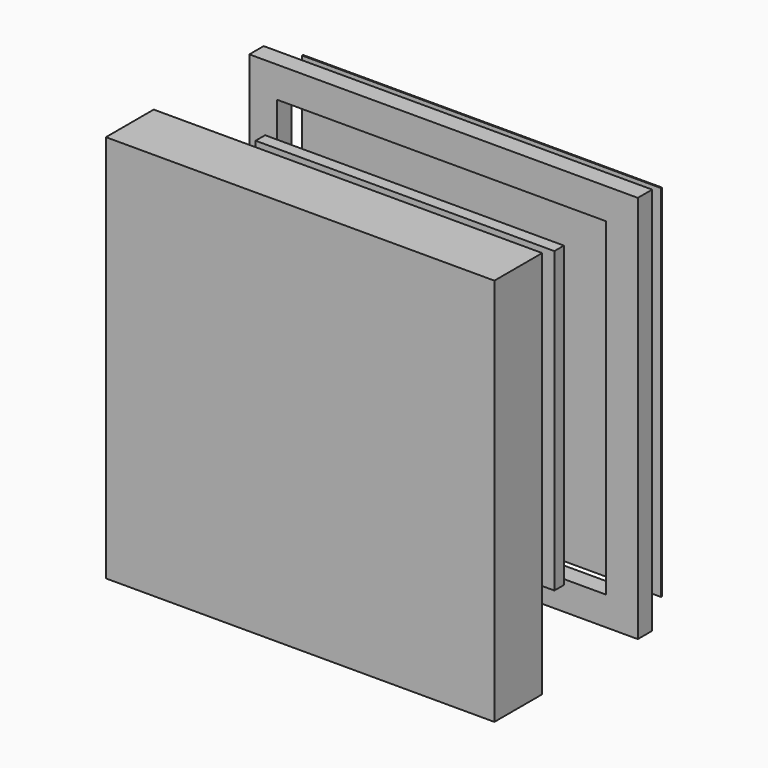
from build123d import *

# Parameters (mm, degrees)
F0_W      = 69.85
F0_H      = 69.85
F1_DEPTH  = 6.35
F0_W_2    = 82.55
F0_H_2    = 82.55
F2_DEPTH  = 12.7
F4_W      = 63.5
F4_H      = 63.5000017857
F5_DEPTH  = 2.54
F7_W      = 63.5
F7_H      = 63.5
F8_DEPTH  = 2.54
F10_W     = 82.55
F10_H     = 82.55
F10_W_2   = 69.85
F10_H_2   = 69.85
F11_DEPTH = 3.81
F13_W     = 76.2702370994
F13_H     = 76.493247645
F14_DEPTH = 0.254


with BuildPart() as f1:
    # F0 (on Front) → F1 (new body)
    with BuildSketch(Plane.XZ):
        with Locations((41.275, -41.275)):
            Rectangle(F0_W, F0_H)
    extrude(amount=-F1_DEPTH)

    # F0 (on Front) → F2 (join)
    with BuildSketch(Plane.XZ):
        with Locations((41.275, -41.275)):
            Rectangle(F0_W_2, F0_H_2)
        with Locations((41.275, -41.275)):
            Rectangle(F0_W, F0_H, mode=Mode.SUBTRACT)
    extrude(amount=-F2_DEPTH)


with BuildPart() as f5:
    # F4 (on offset) → F5 (new body)
    with BuildSketch(Plane(origin=(0, 17.78, 0), x_dir=(-1, 0, 0), z_dir=(0, 1, 0))):
        with Locations((-41.2176772952, -41.062287055)):
            Rectangle(F4_W, F4_H)
    extrude(amount=F5_DEPTH)


with BuildPart() as f8:
    # F7 (on offset) → F8 (new body)
    with BuildSketch(Plane(origin=(0, 27.94, 0), x_dir=(-1, 0, 0), z_dir=(0, 1, 0))):
        with Locations((-41.1946158856, -40.7015295091)):
            Rectangle(F7_W, F7_H)
    extrude(amount=F8_DEPTH)


with BuildPart() as f11:
    # F10 (on offset) → F11 (new body)
    with BuildSketch(Plane(origin=(0, 38.1, 0), x_dir=(-1, 0, 0), z_dir=(0, 1, 0))):
        with Locations((-41.275, -41.275)):
            Rectangle(F10_W, F10_H)
        with Locations((-40.8204782724, -41.492952776)):
            Rectangle(F10_W_2, F10_H_2, mode=Mode.SUBTRACT)
    extrude(amount=F11_DEPTH)


with BuildPart() as f14:
    # F13 (on offset) → F14 (new body)
    with BuildSketch(Plane(origin=(0, 48.26, 0), x_dir=(-1, 0, 0), z_dir=(0, 1, 0))):
        with Locations((-41.2437024061, -41.589305154)):
            Rectangle(F13_W, F13_H)
    extrude(amount=F14_DEPTH)


solid = Compound([f1.part, f5.part, f8.part, f11.part, f14.part])
